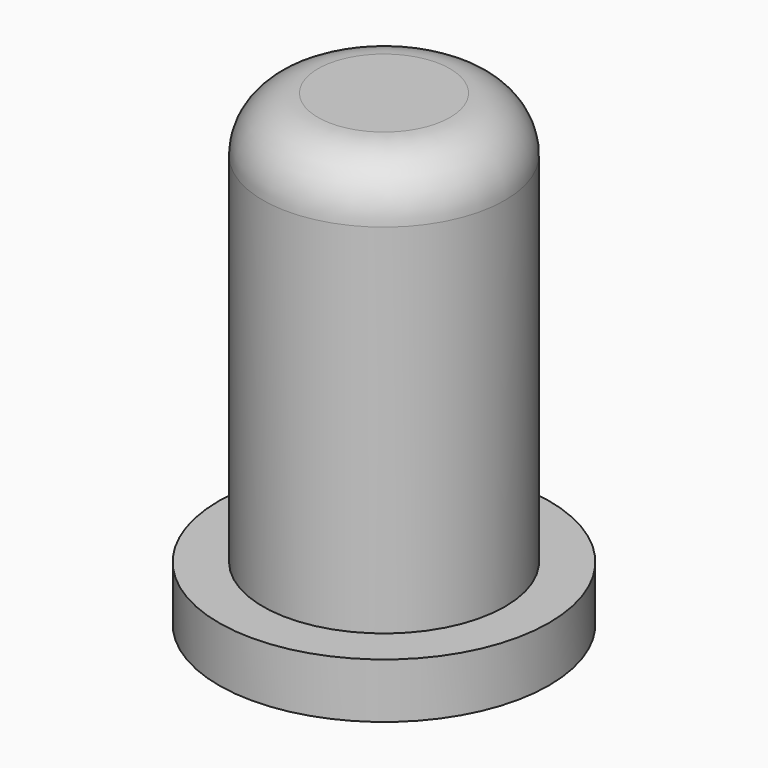
from build123d import *

# Parameters (mm, degrees)
CYLINDER020_R     = 2.2
CYLINDER020_DEPTH = 8.5
CYLINDER022_R     = 3
CYLINDER022_DEPTH = 1
FILLET001_R       = 1


with BuildPart() as control_button_c:
    # Cylinder020 → Cylinder020 (new body)
    with BuildSketch(Plane(origin=(58.3, 98.3, 9.6), x_dir=(1, 0, 0), z_dir=(0, 0, 1))):
        Circle(CYLINDER020_R)
    extrude(amount=CYLINDER020_DEPTH)


with BuildPart() as control_button:
    # Cylinder022 → Cylinder022 (new body)
    with BuildSketch(Plane(origin=(58.3, 98.3, 9.6), x_dir=(1, 0, 0), z_dir=(0, 0, 1))):
        Circle(CYLINDER022_R)
    extrude(amount=CYLINDER022_DEPTH)

    # Fusion033: union control_button_c
    add(control_button_c.part)

    # Fillet001
    fillet001_edges = [control_button.edges().sort_by_distance(p)[0] for p in [
        (56.1, 98.3, 18.1),
    ]]
    fillet(fillet001_edges, radius=FILLET001_R)


solid = control_button.part
